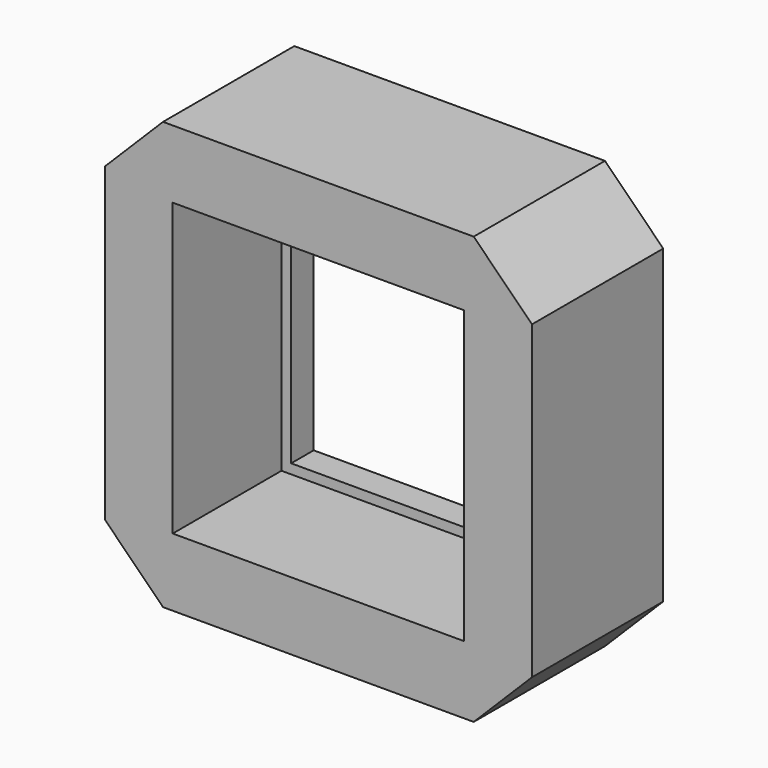
from build123d import *

# Parameters (mm, degrees)
F0_W     = 22
F0_H     = 22
F0_W_2   = 14
F0_H_2   = 14
F1_DEPTH = 1.45
F2_W     = 22
F2_H     = 22
F2_W_2   = 15
F2_H_2   = 15
F3_DEPTH = 7
F4_SIZE  = 3


with BuildPart() as f1:
    # F0 (on Front) → F1 (new body)
    with BuildSketch(Plane.XZ):
        Rectangle(F0_W, F0_H)
        Rectangle(F0_W_2, F0_H_2, mode=Mode.SUBTRACT)
    extrude(amount=F1_DEPTH)

    # F2 (on face) → F3 (join)
    with BuildSketch(Plane.XZ.offset(1.45)):
        Rectangle(F2_W, F2_H)
        Rectangle(F2_W_2, F2_H_2, mode=Mode.SUBTRACT)
    extrude(amount=F3_DEPTH)

    # F4
    f4_edges = [f1.edges().sort_by_distance(p)[0] for p in [
        (-11, -4.225, 11),
        (11, -4.225, 11),
        (11, -4.225, -11),
        (-11, -4.225, -11),
    ]]
    chamfer(f4_edges, length=F4_SIZE)


solid = f1.part
